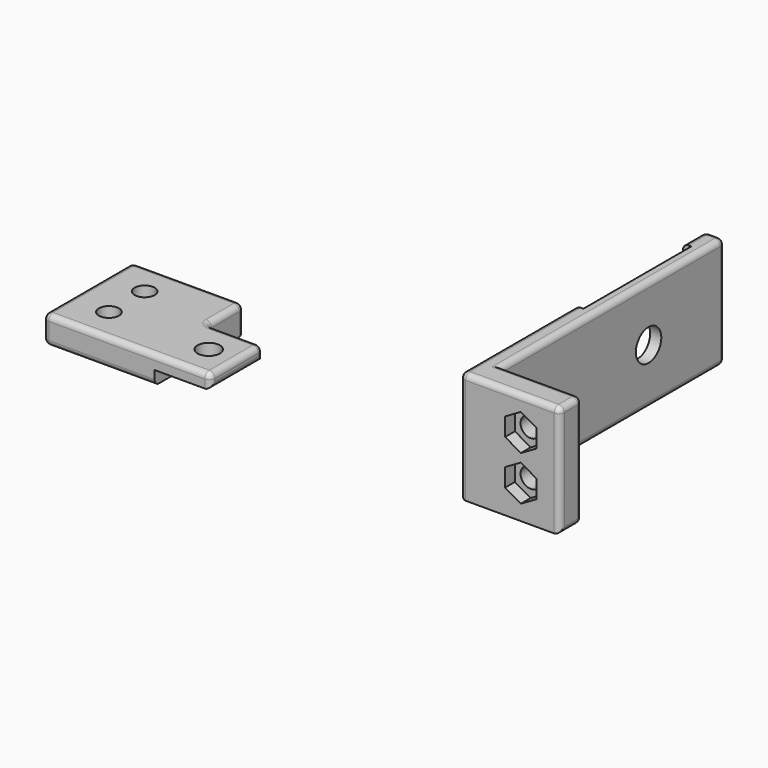
from build123d import *

# Parameters (mm, degrees)
F1_DEPTH  = 20
F2_R      = 1.8
F3_DEPTH  = 5
F4_DEPTH  = 2.2
F5_R      = 2.85
F6_DEPTH  = 25
F7_R      = 1
F8_DEPTH  = 5
F9_START  = 2.5
F0_R      = 1.8
F9_DEPTH  = 2.5
F10_START = 2.5
F0_W      = 10
F0_H      = 11.7498254403
F0_R_2    = 2
F10_DEPTH = 2.5
F11_R     = 1


with BuildPart() as f1:
    # F0 (on Top) → F1 (new body)
    with BuildSketch(Plane.XY):
        Polygon((0, 25.8), (0, 0), (17.9, 0), (17.9, 5), (3.5, 5), (3.5, 55), (0, 55), (0, 50), (1.5, 50), (1.5, 25.8), align=None)
    extrude(amount=F1_DEPTH)

    # F2 (on face) → F3 (cut)
    with BuildSketch(Plane.XZ):
        with Locations((10.9, 6)):
            Circle(F2_R)
        with Locations((10.9, 14)):
            Circle(F2_R)
    extrude(amount=-F3_DEPTH, mode=Mode.SUBTRACT)

    # F2 (on face) → F4 (cut)
    with BuildSketch(Plane.XZ):
        Polygon((8.0854174377, 12.375), (10.9, 10.75), (13.7145825623, 12.375), (13.7145825623, 15.625), (10.9, 17.25), (8.0854174377, 15.625), align=None)
        with Locations((10.9, 14)):
            Circle(F2_R, mode=Mode.SUBTRACT)
        Polygon((13.7145825623, 7.625), (10.9, 9.25), (8.0854174377, 7.625), (8.0854174377, 4.375), (10.9, 2.75), (13.7145825623, 4.375), align=None)
        with Locations((10.9, 6)):
            Circle(F2_R, mode=Mode.SUBTRACT)
    extrude(amount=-F4_DEPTH, mode=Mode.SUBTRACT)

    # F5 (on face) → F6 (cut)
    with BuildSketch(Plane(origin=(1.5, 0, 0), x_dir=(0, -1, 0), z_dir=(-1, 0, 0))):
        with Locations((-37.9, 10)):
            Circle(F5_R)
    extrude(amount=-F6_DEPTH, mode=Mode.SUBTRACT)

    # F7
    f7_edges = [f1.edges().sort_by_distance(p)[0] for p in [
        (10.7, 5, 20),
        (3.5, 30, 20),
        (3.5, 55, 10),
        (1.75, 55, 20),
        (0, 55, 10),
        (1.75, 55, 0),
        (3.5, 30, 0),
        (10.7, 5, 0),
        (17.9, 5, 10),
        (17.9, 2.5, 0),
        (17.9, 2.5, 20),
        (17.9, 0, 10),
        (0, 12.9, 20),
        (8.95, 0, 20),
        (0, 52.5, 20),
        (0, 12.9, 0),
        (0, 0, 10),
        (0, 52.5, 0),
    ]]
    fillet(f7_edges, radius=F7_R)


with BuildPart() as f8:
    # F0 (on Top) → F8 (new body)
    with BuildSketch(Plane.XY):
        Polygon((-74.7820213437, 20), (-74.7820213437, 0), (-54.7820213437, 0), (-54.7820213437, 11.7498254403), (-54.7820213437, 20), align=None)
        Polygon((-70.630551196, 4.4352707325), (-70.5613815655, 7.6845345818), (-67.7128517132, 9.2492638493), (-64.9334914914, 7.5647292675), (-65.0026611219, 4.3154654182), (-67.8511909742, 2.7507361507), align=None, mode=Mode.SUBTRACT)
        Polygon((-64.9674387814, 12.375), (-67.7820213437, 10.75), (-70.596603906, 12.375), (-70.596603906, 15.625), (-67.7820213437, 17.25), (-64.9674387814, 15.625), align=None, mode=Mode.SUBTRACT)
    extrude(amount=F8_DEPTH)

    # F0 (on Top) → F9 (join)
    with BuildSketch(Plane.XY.offset(F9_START)):
        Polygon((-67.7128517132, 9.2492638493), (-70.5613815655, 7.6845345818), (-70.630551196, 4.4352707325), (-67.8511909742, 2.7507361507), (-65.0026611219, 4.3154654182), (-64.9334914914, 7.5647292675), align=None)
        with Locations((-67.7820213437, 6)):
            Circle(F0_R, mode=Mode.SUBTRACT)
        Polygon((-70.596603906, 12.375), (-67.7820213437, 10.75), (-64.9674387814, 12.375), (-64.9674387814, 15.625), (-67.7820213437, 17.25), (-70.596603906, 15.625), align=None)
        with Locations((-67.7820213437, 14)):
            Circle(F0_R, mode=Mode.SUBTRACT)
    extrude(amount=F9_DEPTH)

    # F0 (on Top) → F10 (join)
    with BuildSketch(Plane.XY.offset(F10_START)):
        with Locations((-49.7820213437, 5.8749127202)):
            Rectangle(F0_W, F0_H)
        with Locations((-49.7820213437, 5.8749127202)):
            Circle(F0_R_2, mode=Mode.SUBTRACT)
    extrude(amount=F10_DEPTH)

    # F11
    f11_edges = [f8.edges().sort_by_distance(p)[0] for p in [
        (-59.782021, 0, 5),
        (-64.782021, 0, 0),
        (-44.782021, 0, 3.75),
        (-44.782021, 5.874913, 5),
        (-49.782021, 11.749825, 5),
        (-54.782021, 15.874913, 5),
        (-74.782021, 10, 5),
        (-64.782021, 20, 5),
        (-74.782021, 0, 2.5),
        (-74.782021, 10, 0),
        (-44.782021, 5.874913, 2.5),
        (-44.782021, 11.749825, 3.75),
        (-54.782021, 11.749825, 3.75),
        (-64.782021, 20, 0),
        (-54.782021, 20, 2.5),
        (-74.782021, 20, 2.5),
    ]]
    fillet(f11_edges, radius=F11_R)


solid = Compound([f1.part, f8.part])
